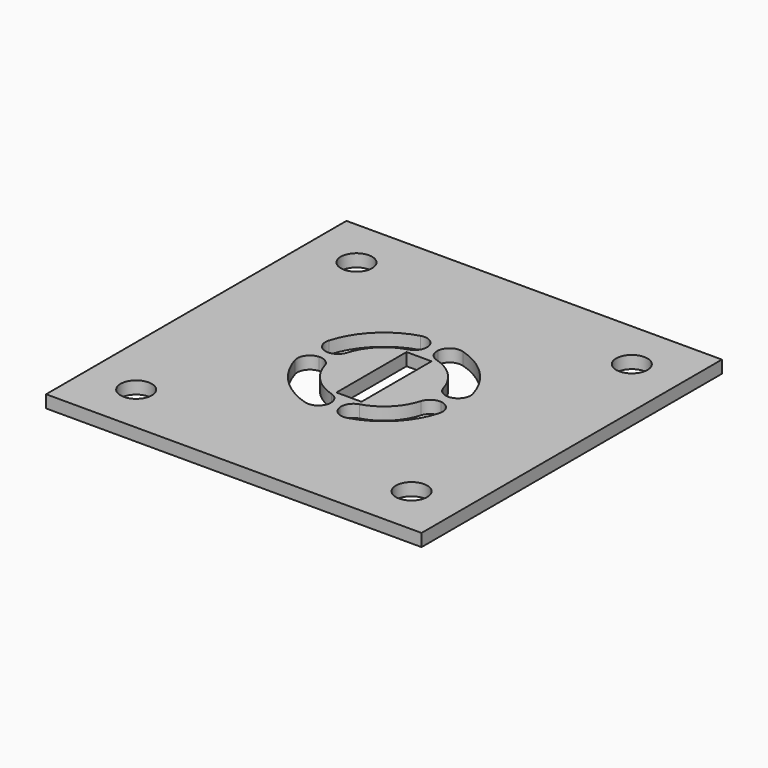
from build123d import *

# Parameters (mm, degrees)
F0_W     = 38.1
F0_H     = 38.1
F1_DEPTH = 1.27
F2_R     = 1.5875
F3_DEPTH = 25.4
F6_W     = 2.54
F6_H     = 8.89
F7_DEPTH = 25.4


with BuildPart() as f1:
    # F0 (on Top) → F1 (new body)
    with BuildSketch(Plane.XY):
        Rectangle(F0_W, F0_H)
    extrude(amount=F1_DEPTH)

    # F2 (on Top) → F3 (cut)
    with BuildSketch(Plane.XY):
        with Locations((13.97, 13.97)):
            Circle(F2_R)
    extrude(amount=F3_DEPTH, mode=Mode.SUBTRACT)

    # F4: F1 across plane


with BuildPart() as f1_1:
    add(f1.part)
    add(f1.part.mirror(Plane.YZ), mode=Mode.INTERSECT)

    # F5: F1 across plane


with BuildPart() as f1_2:
    add(f1_1.part)
    add(f1_1.part.mirror(Plane.XZ), mode=Mode.INTERSECT)

    # F6 (on Top) → F7 (cut)
    with BuildSketch(Plane.XY):
        with BuildLine():
            ThreePointArc((-6.200063, -0.518475), (-7.141481, -1.065611), (-7.313076, -2.14087))
            ThreePointArc((-7.313076, -2.14087), (-5.388154, -5.388154), (-2.14087, -7.313076))
            ThreePointArc((-2.14087, -7.313076), (-1.065611, -7.141481), (-0.518475, -6.200063))
            ThreePointArc((-0.518475, -6.200063), (-0.736807, -5.375783), (-1.427246, -4.875384))
            ThreePointArc((-1.427246, -4.875384), (-3.592102, -3.592102), (-4.875384, -1.427246))
            ThreePointArc((-4.875384, -1.427246), (-5.375783, -0.736807), (-6.200063, -0.518475))
        make_face()
        with BuildLine():
            ThreePointArc((0.518475, -6.200063), (1.065611, -7.141481), (2.14087, -7.313076))
            ThreePointArc((2.14087, -7.313076), (5.388154, -5.388154), (7.313076, -2.14087))
            ThreePointArc((7.313076, -2.14087), (7.141481, -1.065611), (6.200063, -0.518475))
            ThreePointArc((6.200063, -0.518475), (5.375783, -0.736807), (4.875384, -1.427246))
            ThreePointArc((4.875384, -1.427246), (3.592102, -3.592102), (1.427246, -4.875384))
            ThreePointArc((1.427246, -4.875384), (0.736807, -5.375783), (0.518475, -6.200063))
        make_face()
        with BuildLine():
            ThreePointArc((6.200063, 0.518475), (7.141481, 1.065611), (7.313076, 2.14087))
            ThreePointArc((7.313076, 2.14087), (5.388154, 5.388154), (2.14087, 7.313076))
            ThreePointArc((2.14087, 7.313076), (1.065611, 7.141481), (0.518475, 6.200063))
            ThreePointArc((0.518475, 6.200063), (0.736807, 5.375783), (1.427246, 4.875384))
            ThreePointArc((1.427246, 4.875384), (3.592102, 3.592102), (4.875384, 1.427246))
            ThreePointArc((4.875384, 1.427246), (5.375783, 0.736807), (6.200063, 0.518475))
        make_face()
        with BuildLine():
            ThreePointArc((-0.518475, 6.200063), (-1.065611, 7.141481), (-2.14087, 7.313076))
            ThreePointArc((-2.14087, 7.313076), (-5.388154, 5.388154), (-7.313076, 2.14087))
            ThreePointArc((-7.313076, 2.14087), (-7.141481, 1.065611), (-6.200063, 0.518475))
            ThreePointArc((-6.200063, 0.518475), (-5.375783, 0.736807), (-4.875384, 1.427246))
            ThreePointArc((-4.875384, 1.427246), (-3.592102, 3.592102), (-1.427246, 4.875384))
            ThreePointArc((-1.427246, 4.875384), (-0.736807, 5.375783), (-0.518475, 6.200063))
        make_face()
        Rectangle(F6_W, F6_H)
    extrude(amount=F7_DEPTH, mode=Mode.SUBTRACT)


solid = f1_2.part
